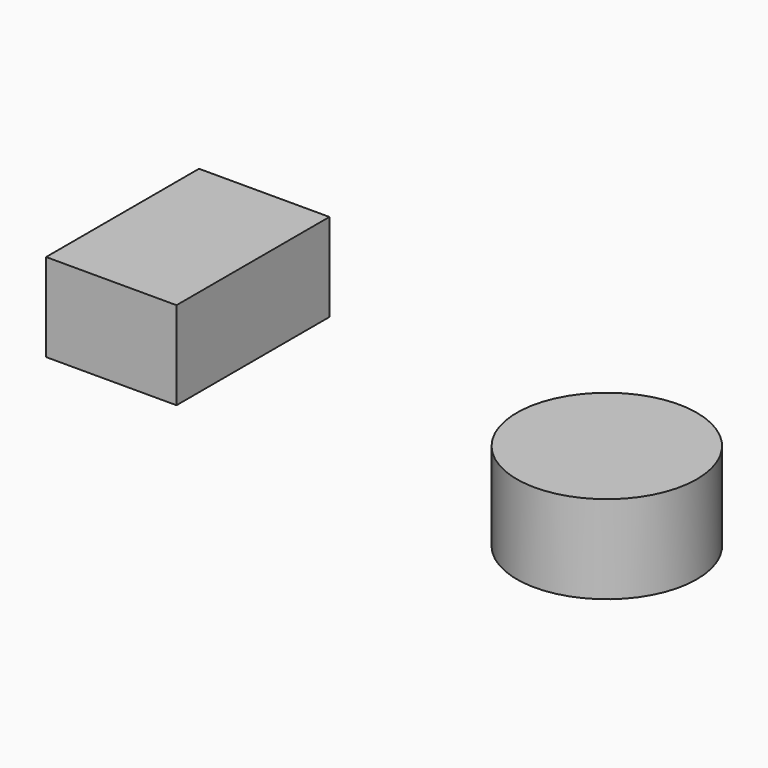
from build123d import *

# Parameters (mm, degrees)
F0_W     = 37.601612
F0_H     = 55.11266
F0_R     = 25.958203
F1_DEPTH = 25.4


with BuildPart() as f1:
    # F0 (on Top) → F1 (new body)
    with BuildSketch(Plane.XY):
        with Locations((-104.579512, 6.943461)):
            Rectangle(F0_W, F0_H)
        with Locations((32.749854, -13.689412)):
            Circle(F0_R)
    extrude(amount=F1_DEPTH)


solid = f1.part
